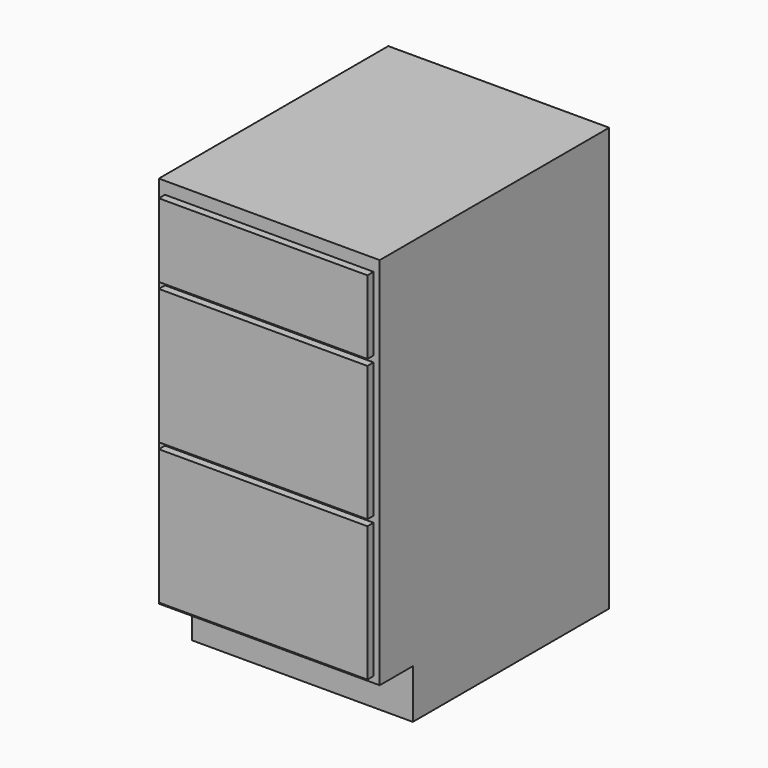
from build123d import *

# Parameters (mm, degrees)
F0_W     = 457.2
F0_H     = 609.6
F1_DEPTH = 876.3
F2_W     = 457.2
F2_H     = 101.6
F3_DEPTH = 101.6
F4_W     = 457.2
F4_H     = 774.7
F4_W_2   = 431.8
F4_H_2   = 279.4
F4_H_3   = 152.4
F5_DEPTH = 15.875


with BuildPart() as f1:
    # F0 (on Top) → F1 (new body)
    with BuildSketch(Plane.XY):
        with Locations((228.6, 304.8)):
            Rectangle(F0_W, F0_H)
    extrude(amount=F1_DEPTH)

    # F2 (on face) → F3 (cut)
    with BuildSketch(Plane.XZ):
        with Locations((228.6, 50.8)):
            Rectangle(F2_W, F2_H)
    extrude(amount=-F3_DEPTH, mode=Mode.SUBTRACT)

    # F4 (on face) → F5 (cut)
    with BuildSketch(Plane.XZ):
        with Locations((228.6, 488.95)):
            Rectangle(F4_W, F4_H)
        with Locations((228.6, 254)):
            Rectangle(F4_W_2, F4_H_2, mode=Mode.SUBTRACT)
        with Locations((228.6, 546.1)):
            Rectangle(F4_W_2, F4_H_2, mode=Mode.SUBTRACT)
        with Locations((228.6, 774.7)):
            Rectangle(F4_W_2, F4_H_3, mode=Mode.SUBTRACT)
    extrude(amount=-F5_DEPTH, mode=Mode.SUBTRACT)


solid = f1.part
